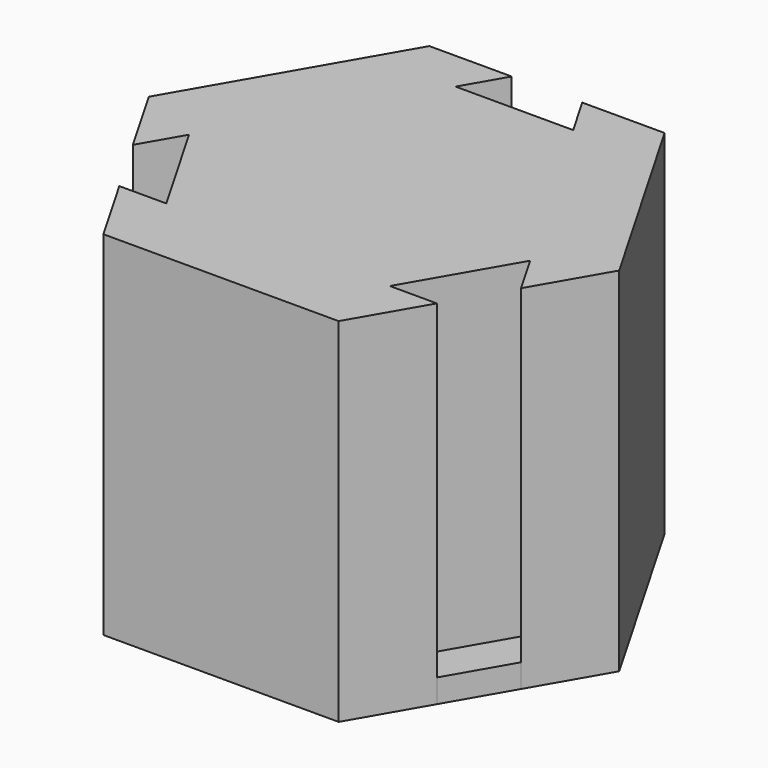
from build123d import *

# Parameters (mm, degrees)
F0_R     = 1.875
F1_DEPTH = 30
F2_DEPTH = 2
F3_START = 28
F3_DEPTH = 2


with BuildPart() as f1:
    # F0 (on Top) → F1 (new body)
    with BuildSketch(Plane.XY):
        Polygon((16.5, -6.0621778265), (20, 0), (10, 17.3205080757), (3, 17.3205080757), (5, 13.8564064606), (-5, 13.8564064606), (-3, 17.3205080757), (-10, 17.3205080757), (-20, 0), (-16.5, -6.0621778265), (-14.5, -2.5980762114), (-9.5, -11.2583302492), (-13.5, -11.2583302492), (-10, -17.3205080757), (10, -17.3205080757), (13.5, -11.2583302492), (9.5, -11.2583302492), (14.5, -2.5980762114), align=None)
        Circle(F0_R, mode=Mode.SUBTRACT)
    extrude(amount=F1_DEPTH)

    # F0 (on Top) → F2 (join)
    with BuildSketch(Plane.XY):
        Polygon((13.5, -11.2583302492), (16.5, -6.0621778265), (14.5, -2.5980762114), (9.5, -11.2583302492), align=None)
        Polygon((-16.5, -6.0621778265), (-13.5, -11.2583302492), (-9.5, -11.2583302492), (-14.5, -2.5980762114), align=None)
        Polygon((5, 13.8564064606), (3, 17.3205080757), (-3, 17.3205080757), (-5, 13.8564064606), align=None)
    extrude(amount=F2_DEPTH)

    # F0 (on Top) → F3 (join)
    with BuildSketch(Plane.XY.offset(F3_START)):
        Circle(F0_R)
    extrude(amount=F3_DEPTH)


solid = f1.part
